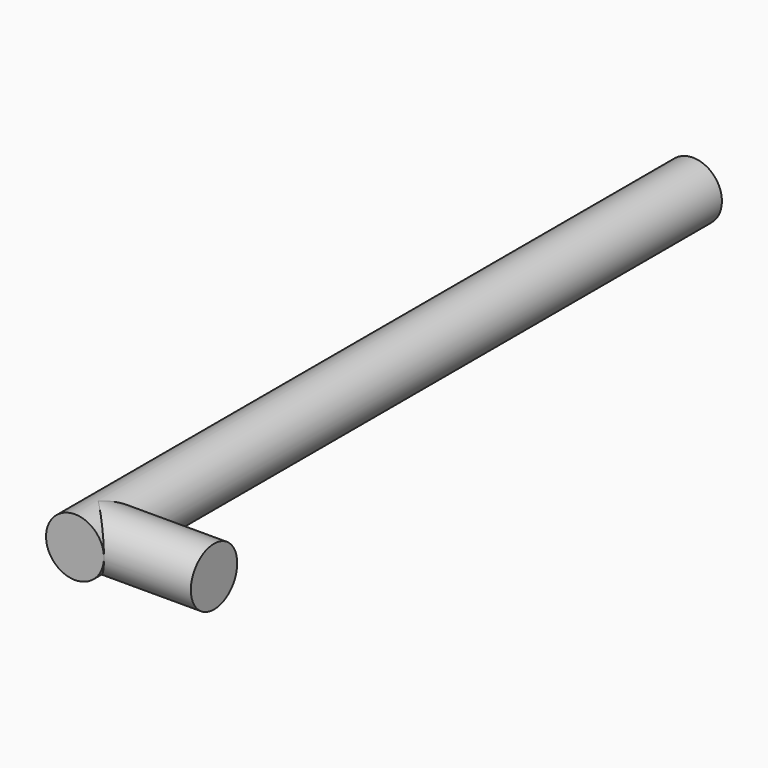
from build123d import *

# Parameters (mm, degrees)
F0_R     = 9.525
F1_DEPTH = 254
F2_R     = 9.525
F3_DEPTH = 38.1


with BuildPart() as f1:
    # F0 (on Front) → F1 (new body)
    with BuildSketch(Plane.XZ):
        Circle(F0_R)
    extrude(amount=-F1_DEPTH)

    # F2 (on Right) → F3 (join)
    with BuildSketch(Plane.YZ):
        with Locations((9.525, 0)):
            Circle(F2_R)
    extrude(amount=F3_DEPTH)


solid = f1.part
